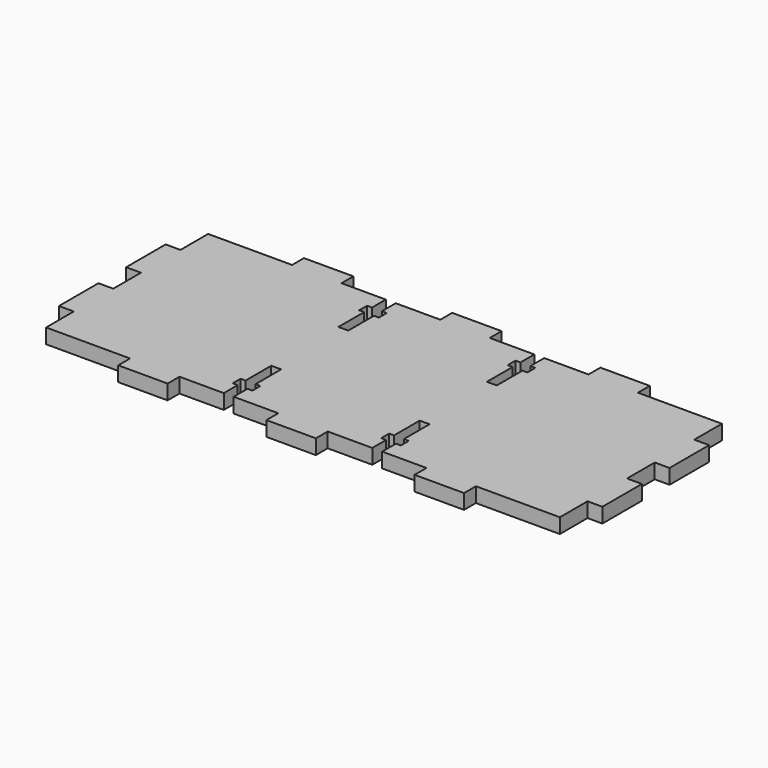
from build123d import *

# Parameters (mm, degrees)
F0_W     = 3
F0_H     = 10
F1_DEPTH = 3


with BuildPart() as f1:
    # F0 (on Top) → F1 (new body)
    with BuildSketch(Plane.XY):
        Polygon((-28.190866, 13.591085), (-45.190866, 13.591085), (-45.190866, 6.591085), (-48.190866, 6.591085), (-48.190866, -3.408915), (-45.190866, -3.408915), (-45.190866, -10.408915), (-48.190866, -10.408915), (-48.190866, -20.408915), (-45.190866, -20.408915), (-45.190866, -27.408915), (-28.190866, -27.408915), (-28.190866, -30.408915), (-18.190866, -30.408915), (-18.190866, -27.408915), (-9.218845, -27.408915), (-9.218845, -23.908915), (-10.218845, -23.908915), (-10.218845, -21.908915), (-9.218845, -21.908915), (-9.218845, -15.408915), (-7.218845, -15.408915), (-7.218845, -21.908915), (-6.218845, -21.908915), (-6.218845, -23.908915), (-7.218845, -23.908915), (-7.218845, -27.408915), (1.809134, -27.408915), (1.809134, -30.408915), (11.809134, -30.408915), (11.809134, -27.408915), (20.837113, -27.408915), (20.837113, -23.908915), (19.837113, -23.908915), (19.837113, -21.908915), (20.837113, -21.908915), (20.837113, -15.408915), (22.837113, -15.408915), (22.837113, -21.908915), (23.837113, -21.908915), (23.837113, -23.908915), (22.837113, -23.908915), (22.837113, -27.408915), (31.809134, -27.408915), (31.809134, -30.408915), (41.809134, -30.408915), (41.809134, -27.408915), (45.309134, -27.408915), (58.809134, -27.408915), (58.809134, -20.408915), (58.809134, -10.408915), (58.809134, -3.408915), (58.809134, 6.591085), (58.809134, 13.591085), (41.809134, 13.591085), (41.809134, 16.591085), (31.809134, 16.591085), (31.809134, 13.591085), (22.837113, 13.591085), (22.837113, 10.091085), (23.837113, 10.091085), (23.837113, 8.091085), (22.837113, 8.091085), (22.837113, 1.591085), (20.837113, 1.591085), (20.837113, 8.091085), (19.837113, 8.091085), (19.837113, 10.091085), (20.837113, 10.091085), (20.837113, 13.591085), (11.809134, 13.591085), (11.809134, 16.591085), (1.809134, 16.591085), (1.809134, 13.591085), (-7.218845, 13.591085), (-7.218845, 10.091085), (-6.218845, 10.091085), (-6.218845, 8.091085), (-7.218845, 8.091085), (-7.218845, 1.591085), (-9.218845, 1.591085), (-9.218845, 8.091085), (-10.218845, 8.091085), (-10.218845, 10.091085), (-9.218845, 10.091085), (-9.218845, 13.591085), (-18.190866, 13.591085), (-18.190866, 16.591085), (-28.190866, 16.591085), align=None)
        with Locations((60.309134, 1.591085)):
            Rectangle(F0_W, F0_H)
        with Locations((60.309134, -15.408915)):
            Rectangle(F0_W, F0_H)
    extrude(amount=F1_DEPTH)


solid = f1.part
